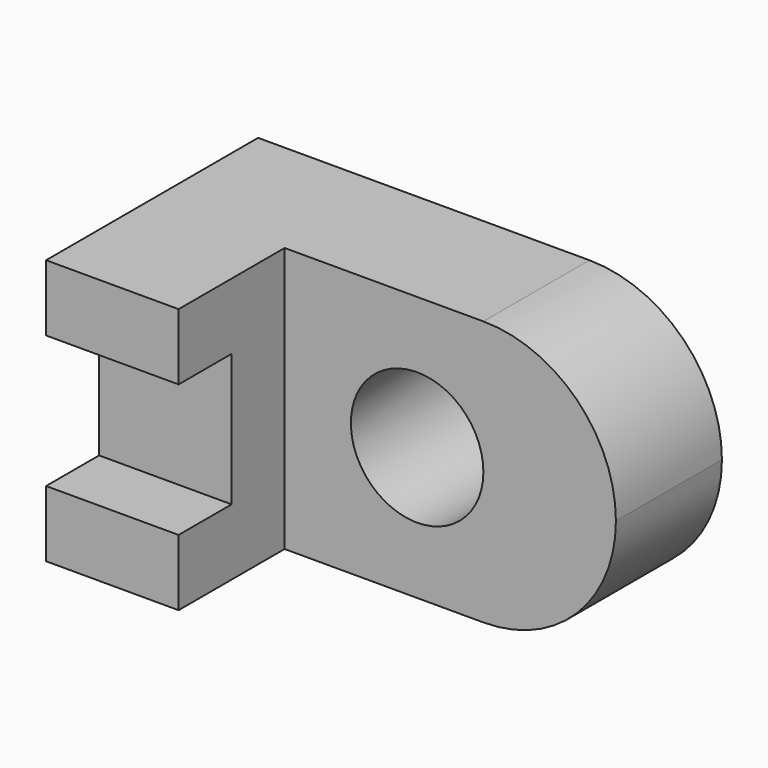
from build123d import *

# Parameters (mm, degrees)
F1_DEPTH = 25.4
F2_W     = 12.7
F2_H     = 12.7
F3_DEPTH = 6.35
F5_DEPTH = 25.4
F6_R     = 6.35
F7_DEPTH = 25.4


with BuildPart() as f1:
    # F0 (on Top) → F1 (new body)
    with BuildSketch(Plane.XY):
        Polygon((0, -12.7), (0, 0), (31.75, 0), (31.75, 12.7), (-12.7, 12.7), (-12.7, -12.7), align=None)
    extrude(amount=F1_DEPTH)

    # F2 (on face) → F3 (cut)
    with BuildSketch(Plane.XZ.offset(12.7)):
        with Locations((-6.35, 12.7)):
            Rectangle(F2_W, F2_H)
    extrude(amount=-F3_DEPTH, mode=Mode.SUBTRACT)

    # F4 (on face) → F5 (cut)
    with BuildSketch(Plane.XZ):
        with BuildLine():
            ThreePointArc((19.05, 25.4), (28.030256, 21.680256), (31.75, 12.7))
            Line((31.75, 12.7), (31.75, 25.4))
            Line((31.75, 25.4), (19.05, 25.4))
        make_face()
        with BuildLine():
            ThreePointArc((31.75, 12.7), (28.030256, 3.719744), (19.05, 0))
            Line((19.05, 0), (31.75, 0))
            Line((31.75, 0), (31.75, 12.7))
        make_face()
    extrude(amount=-F5_DEPTH, mode=Mode.SUBTRACT)

    # F6 (on face) → F7 (cut)
    with BuildSketch(Plane.XZ):
        with Locations((12.7, 12.7)):
            Circle(F6_R)
    extrude(amount=-F7_DEPTH, mode=Mode.SUBTRACT)


solid = f1.part
